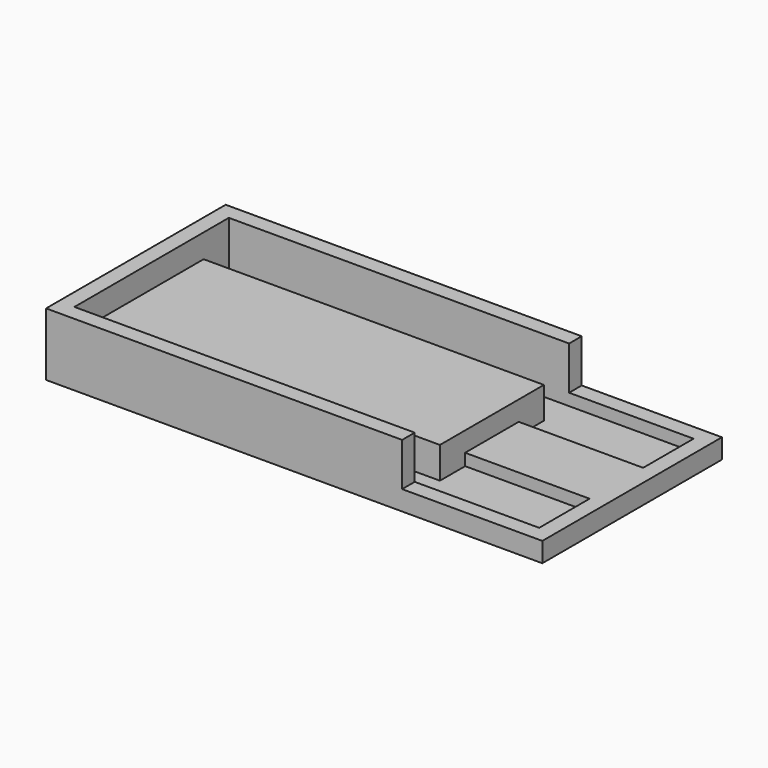
from build123d import *

# Parameters (mm, degrees)
F0_W     = 43.2
F0_H     = 4
F1_DEPTH = 1
F0_W_2   = 15.8
F0_H_2   = 2
F0_H_3   = 8.5
F2_DEPTH = 2.5
F3_DEPTH = 5
F4_DEPTH = 8


with BuildPart() as f1:
    # F0 (on Top) → F1 (new body)
    with BuildSketch(Plane.XY):
        Polygon((59, 16.5), (59, 24.5), (43.2, 24.5), (43.2, 20.5), (43.2, 16.5), align=None)
        with Locations((21.6, 22.5)):
            Rectangle(F0_W, F0_H)
    extrude(amount=F1_DEPTH)



with BuildPart() as f1b:
    # F0 (on Top) → F1, piece 2 (new body)
    with BuildSketch(Plane.XY):
        Polygon((59, 0), (59, 8), (43.2, 8), (43.2, 4), (43.2, 0), align=None)
        with Locations((21.6, 2)):
            Rectangle(F0_W, F0_H)
    extrude(amount=F1_DEPTH)


with BuildPart() as f1_1:
    add(f1.part)

    add(f1b.part)  # F2 merges F1b
    # F0 (on Top) → F2 (join)
    with BuildSketch(Plane.XY):
        with Locations((51.1, 25.5)):
            Rectangle(F0_W_2, F0_H_2)
        with Locations((51.1, 12.25)):
            Rectangle(F0_W_2, F0_H_3)
        with Locations((51.1, -1)):
            Rectangle(F0_W_2, F0_H_2)
        Polygon((61, 26.5), (59, 26.5), (59, 24.5), (59, 16.5), (59, 8), (59, 0), (59, -2), (61, -2), align=None)
    extrude(amount=F2_DEPTH)

    # F0 (on Top) → F3 (join)
    with BuildSketch(Plane.XY):
        Polygon((43.2, 8), (43.2, 16.5), (43.2, 20.5), (0, 20.5), (0, 4), (43.2, 4), align=None)
    extrude(amount=F3_DEPTH)

    # F0 (on Top) → F4 (join)
    with BuildSketch(Plane.XY):
        Polygon((43.2, 24.5), (43.2, 26.5), (-2, 26.5), (-2, -2), (43.2, -2), (43.2, 0), (0, 0), (0, 4), (0, 20.5), (0, 24.5), align=None)
    extrude(amount=F4_DEPTH)


solid = f1_1.part
